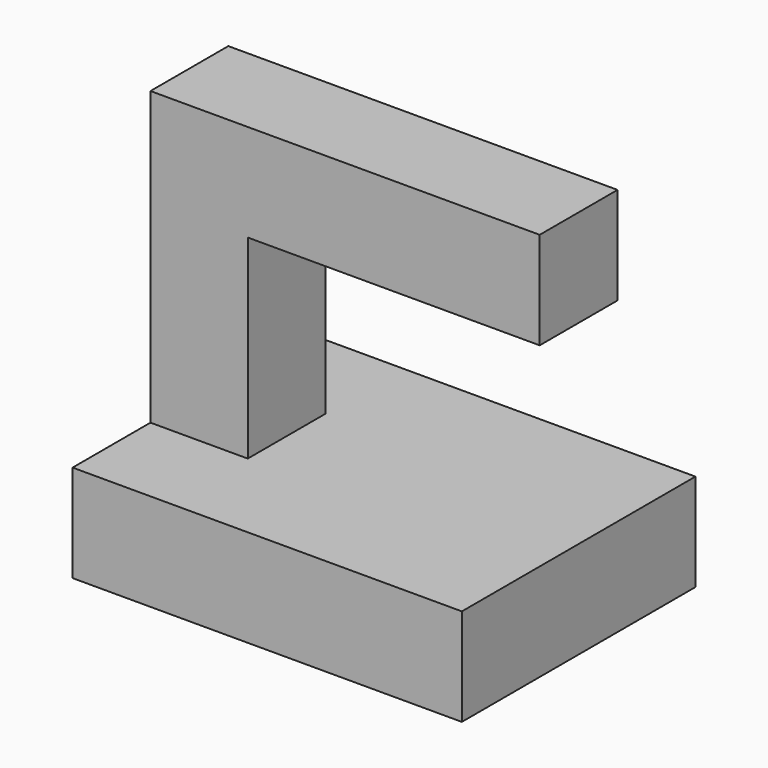
from build123d import *

# Parameters (mm, degrees)
BOX001_W     = 5
BOX001_H     = 5
BOX001_DEPTH = 20
BOX002_W     = 20
BOX002_H     = 5
BOX002_DEPTH = 5
BOX_W        = 20
BOX_H        = 15
BOX_DEPTH    = 5


with BuildPart() as cube001:
    # Box001 → Box001 (new body)
    with BuildSketch(Plane.XY):
        with Locations((2.5, 2.5)):
            Rectangle(BOX001_W, BOX001_H)
    extrude(amount=BOX001_DEPTH)


with BuildPart() as cube002:
    # Box002 → Box002 (new body)
    with BuildSketch(Plane.XY.offset(15)):
        with Locations((10, 2.5)):
            Rectangle(BOX002_W, BOX002_H)
    extrude(amount=BOX002_DEPTH)


with BuildPart() as fusion:
    # Box → Box (new body)
    with BuildSketch(Plane(origin=(0, -5, 0), x_dir=(1, 0, 0), z_dir=(0, 0, 1))):
        with Locations((10, 7.5)):
            Rectangle(BOX_W, BOX_H)
    extrude(amount=BOX_DEPTH)

    # Fusion: union Cube001, Cube002
    add(cube001.part)
    add(cube002.part)


solid = fusion.part
